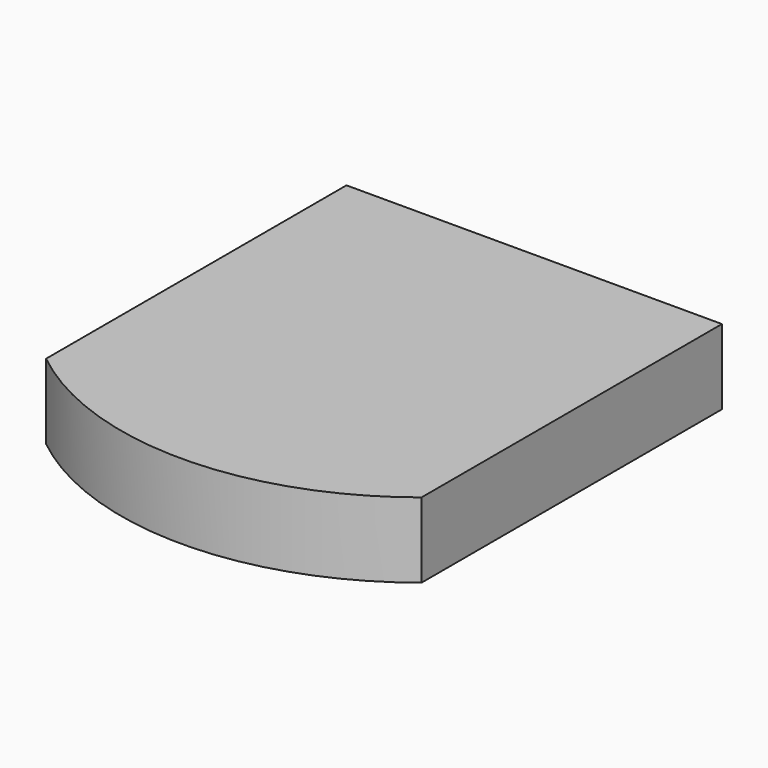
from build123d import *

# Parameters (mm, degrees)
F0_W     = 50
F0_H     = 50
F1_DEPTH = 10
F2_T     = -2.5


with BuildPart() as f1:
    # F0 (on Top) → F1 (new body)
    with BuildSketch(Plane.XY):
        Rectangle(F0_W, F0_H)
        with BuildLine():
            Line((25, -25), (-25, -25))
            ThreePointArc((-25, -25), (0, -33.77501), (25, -25))
        make_face()
    extrude(amount=F1_DEPTH)

    # F2
    f2_openings = [f1.faces().sort_by_distance(p)[0] for p in [
        (0, -3.054648, 0),
    ]]
    offset(amount=F2_T, openings=f2_openings)


solid = f1.part
